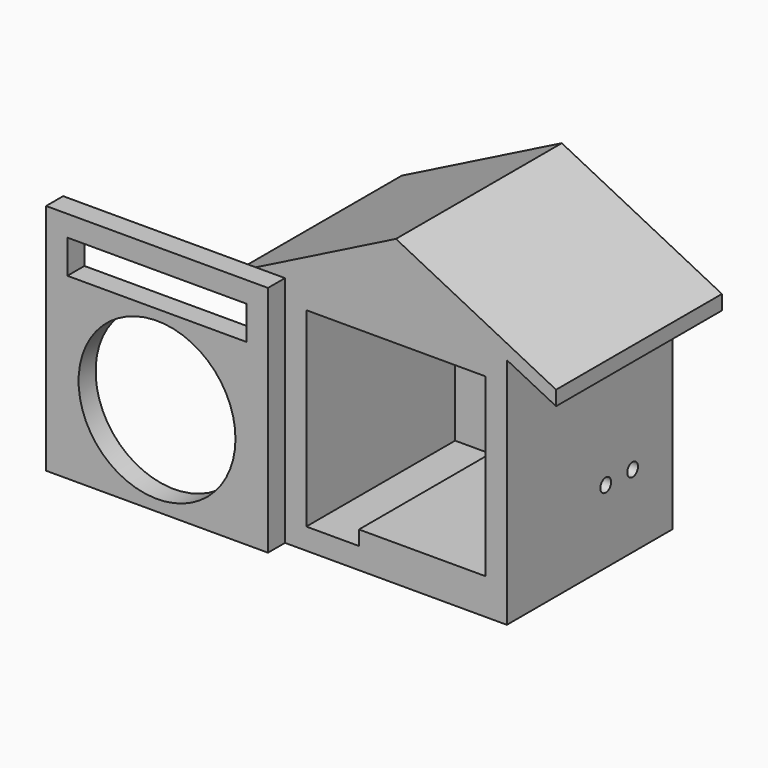
from build123d import *

# Parameters (mm, degrees)
BOX_W           = 198
BOX_H           = 185
BOX_DEPTH       = 208
POCKET_DEPTH    = 166
SKETCH001_R     = 6
POCKET004_DEPTH = 25
PAD_DEPTH       = 185
BOX001_W        = 198
BOX001_H        = 19
BOX001_DEPTH    = 208
SKETCH004_R     = 70
SKETCH004_W     = 160
SKETCH004_H     = 30
POCKET003_DEPTH = 19


with BuildPart() as pad:
    # Box → Box (new body)
    with BuildSketch(Plane.XY):
        with Locations((99, 92.5)):
            Rectangle(BOX_W, BOX_H)
    extrude(amount=BOX_DEPTH)

    # Sketch → Pocket (cut)
    with BuildSketch(Plane.XZ):
        Polygon((19, 19), (19, 189), (179, 189), (179, 32), (66, 32), (66, 19), align=None)
    extrude(amount=-POCKET_DEPTH, mode=Mode.SUBTRACT)

    # Sketch001 → Pocket004 (cut)
    with BuildSketch(Plane.YZ.offset(198)):
        with Locations((110.259512, 65)):
            Circle(SKETCH001_R)
        with Locations((140.259512, 65)):
            Circle(SKETCH001_R)
    extrude(amount=-POCKET004_DEPTH, mode=Mode.SUBTRACT)

    # Sketch005 → Pad (new body)
    with BuildSketch(Plane.XZ):
        Polygon((-43.884567, 186), (-43.884569, 199), (99, 271), (241.884569, 199), (241.884569, 186), (198, 208), (0, 208), align=None)
    extrude(amount=-PAD_DEPTH)


with BuildPart() as pocket003:
    # Box001 → Box001 (new body)
    with BuildSketch(Plane(origin=(0, 0, 0), x_dir=(-1, 0, 0), z_dir=(0, 0, 1))):
        with Locations((99, 9.5)):
            Rectangle(BOX001_W, BOX001_H)
    extrude(amount=BOX001_DEPTH)

    # Sketch004 → Pocket003 (cut)
    with BuildSketch(Plane.XZ.offset(19)):
        with Locations((-99, 80)):
            Circle(SKETCH004_R)
        with Locations((-99, 174.338052)):
            Rectangle(SKETCH004_W, SKETCH004_H)
    extrude(amount=-POCKET003_DEPTH, mode=Mode.SUBTRACT)


solid = Compound([pad.part, pocket003.part])
